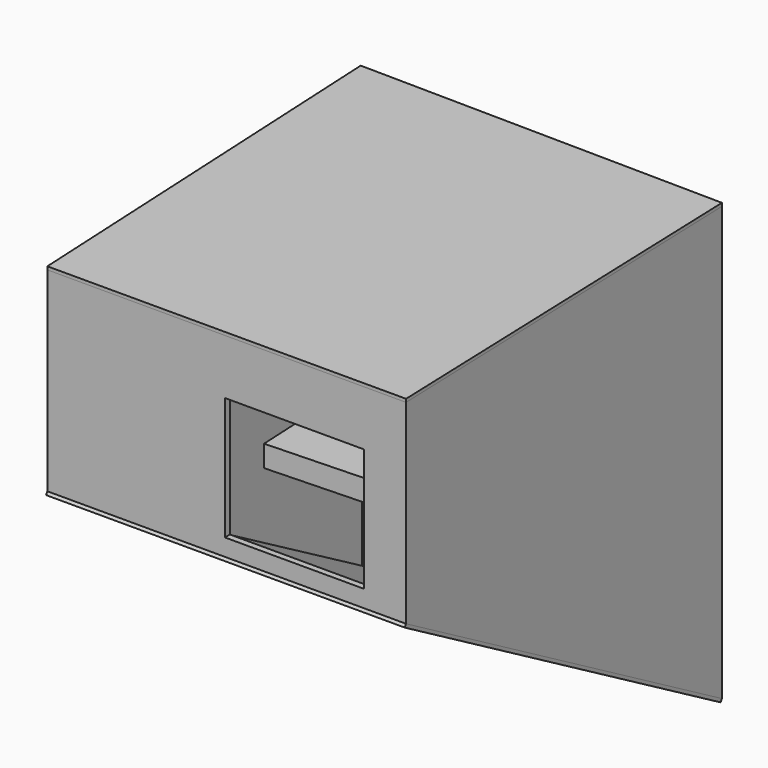
from build123d import *

# Parameters (mm, degrees)
F1_DEPTH  = 4110
F5_DEPTH  = 4144.3607151471
F6_DEPTH  = 25
F8_DEPTH  = 25
F9_W      = 830
F9_H      = 2040
F10_DEPTH = 90.8441419245
F11_DEPTH = 50.0000007451
F12_W     = 900
F12_H     = 170
F14_W     = 1100
F14_H     = 970
F15_DEPTH = 62.5010007451


with BuildPart() as f1:
    # F0 (on Top) → F1 (new body)
    with BuildSketch(Plane.XY):
        Polygon((-213.0136198584, 3251.7042017552), (-47.5571200971, -50.0000007451), (2786.7799622254, -50.0000007451), (2672.6368005452, 3212.4115137828), align=None)
        Polygon((2735, 0), (0, 0), (-160.4091268056, 3200.9832726894), (2624.3327239488, 3163.0646142644), align=None, mode=Mode.SUBTRACT)
    extrude(amount=-F1_DEPTH)

    # F4 (on line) → F5 (cut, through all)
    with BuildSketch(Plane(origin=(0, 629.3395603552, -363.3493645828), x_dir=(-1, 0, 0), z_dir=(0, 0.8660254038, -0.5))):
        Polygon((1857.9003810883, -1358.6791222006), (47.5571200971, -1358.6791222006), (-2786.7799622254, -1358.6791222006), (-2786.7799622254, -4651.7086029053), (1857.9003810883, -4651.7086029053), align=None)
    extrude(amount=F5_DEPTH, mode=Mode.SUBTRACT)

    # F9 (on face) → F10 (cut, through all)
    with BuildSketch(Plane(origin=(43.5486267236, 3198.2060657511, 0), x_dir=(0.9999073073, -0.0136153172, 0), z_dir=(-0.0136153172, -0.9999073073, 0))):
        with Locations((2041.0233393178, -1020)):
            Rectangle(F9_W, F9_H)
    extrude(amount=-F10_DEPTH, mode=Mode.SUBTRACT)


with BuildPart() as f6:
    # F0 (on Top) → F6 (new body)
    with BuildSketch(Plane.XY):
        Polygon((-213.0136198584, 3251.7042017552), (-47.5571200971, -50.0000007451), (2786.7799622254, -50.0000007451), (2672.6368005452, 3212.4115137828), align=None)
        Polygon((2735, 0), (0, 0), (-160.4091268056, 3200.9832726894), (2624.3327239488, 3163.0646142644), align=None, mode=Mode.SUBTRACT)
        Polygon((-160.4091268056, 3200.9832726894), (0, 0), (2735, 0), (2624.3327239488, 3163.0646142644), align=None)
    extrude(amount=F6_DEPTH)


with BuildPart() as f8:
    # F7 (on face) → F8 (new body)
    with BuildSketch(Plane(origin=(0, -679.3395611003, -1176.6506354172), x_dir=(1, 0, 0), z_dir=(0, -0.5, -0.8660254038))):
        Polygon((-213.0136198584, -4539.1783493616), (2672.6368005452, -4493.8070614055), (2786.7799622254, -726.6987291655), (-47.5571200971, -726.6987291655), align=None)
        Polygon((2735, -784.4337569448), (2624.3327239488, -4436.8261699643), (-160.4091268056, -4480.6108652623), (0, -784.4337569448), align=None, mode=Mode.SUBTRACT)
        Polygon((-160.4091268056, -4480.6108652623), (2624.3327239488, -4436.8261699642), (2735, -784.4337569448), (0, -784.4337569448), align=None)
    extrude(amount=F8_DEPTH)


with BuildPart() as f11:
    # F9 (on face) → F11 (new body, through all)
    with BuildSketch(Plane(origin=(43.5486267236, 3198.2060657511, 0), x_dir=(0.9999073073, -0.0136153172, 0), z_dir=(-0.0136153172, -0.9999073073, 0))):
        with Locations((2041.0233393178, -1020)):
            Rectangle(F9_W, F9_H)
    extrude(amount=-F11_DEPTH)


with BuildPart() as f13:
    # F12 (on face) → F13 (new body, up to the next surface of F1)
    with BuildSketch(Plane(origin=(2731.6561380244, 95.5734329739, 0), x_dir=(0.034965964, -0.9993885037, 0), z_dir=(-0.9993885037, -0.034965964, 0))):
        with Locations((-2619.3680884676, -2215)):
            Rectangle(F12_W, F12_H)
    extrude(until=Until.NEXT, target=f1.part)


with BuildPart() as f1_1:
    add(f1.part)

    # F14 (on face) → F15 (cut, through all)
    with BuildSketch(Plane(origin=(0, 0, 0), x_dir=(-1, 0, 0), z_dir=(0, 1, 0))):
        with Locations((-1905, -920)):
            Rectangle(F14_W, F14_H)
    extrude(amount=-F15_DEPTH, mode=Mode.SUBTRACT)


solid = Compound([f6.part, f8.part, f11.part, f13.part, f1_1.part])
